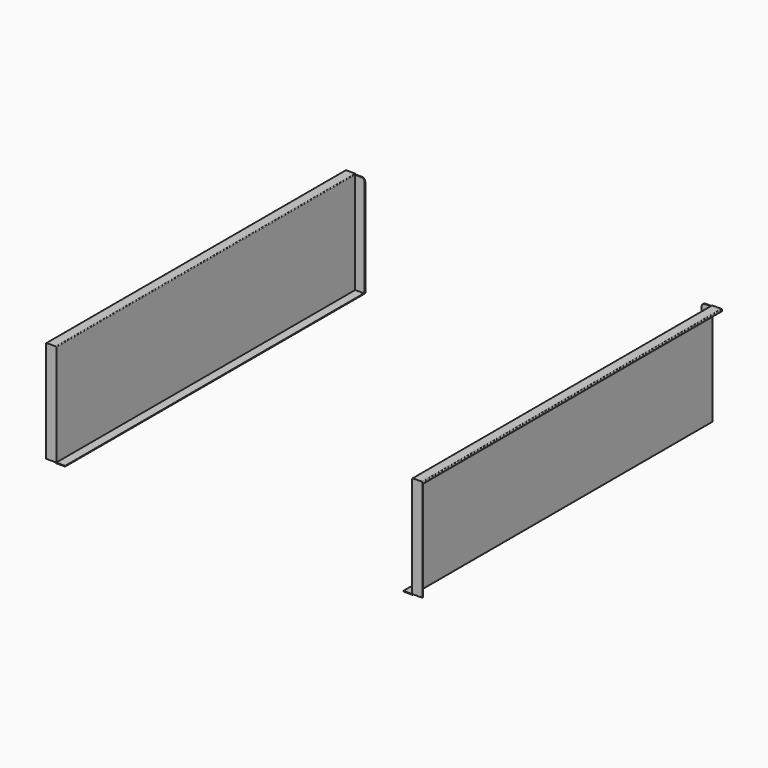
from build123d import *

# Parameters (mm, degrees)
F1_DEPTH = 550
F2_W     = 1
F2_H     = 149
F3_DEPTH = 14
F4_R     = 5
F5_W     = 1
F5_H     = 149
F6_DEPTH = 14
F7_DEPTH = 14


with BuildPart() as f1:
    # F0 (on Front) → F1 (new body)
    with BuildSketch(Plane.XZ):
        with BuildLine():
            Line((-275.5, 23.921954), (-275.5, 25.921954))
            Line((-275.5, 25.921954), (-262.5, 25.921954))
            Line((-262.5, 25.921954), (-262.5, -123.078046))
            ThreePointArc((-262.5, -123.078046), (-262.207107, -123.785152), (-261.5, -124.078046))
            Line((-261.5, -124.078046), (-248.5, -124.078046))
            Line((-248.5, -124.078046), (-248.5, -123.078046))
            Line((-248.5, -123.078046), (-261.5, -123.078046))
            Line((-261.5, -123.078046), (-261.5, 25.921954))
            ThreePointArc((-261.5, 25.921954), (-261.792893, 26.629061), (-262.5, 26.921954))
            Line((-262.5, 26.921954), (-275.5, 26.921954))
            ThreePointArc((-275.5, 26.921954), (-276.207107, 26.629061), (-276.5, 25.921954))
            Line((-276.5, 25.921954), (-276.5, 23.921954))
            Line((-276.5, 23.921954), (-275.5, 23.921954))
        make_face()
    extrude(amount=-F1_DEPTH)

    # F2 (on face) → F3 (join)
    with BuildSketch(Plane.YZ.offset(-261.5)):
        with Locations((549.5, -48.578046)):
            Rectangle(F2_W, F2_H)
    extrude(amount=F3_DEPTH)

    # F4
    f4_edges = [f1.edges().sort_by_distance(p)[0] for p in [
        (-247.5, 549.5, 25.921954),
    ]]
    fillet(f4_edges, radius=F4_R)

    # F5 (on face) → F6 (join)
    with BuildSketch(Plane(origin=(-262.5, 0, 0), x_dir=(0, -1, 0), z_dir=(-1, 0, 0))):
        with Locations((-0.5, -48.578046)):
            Rectangle(F5_W, F5_H)
    extrude(amount=F6_DEPTH)

    # F5 (on face) → F7 (join)
    with BuildSketch(Plane(origin=(-262.5, 0, 0), x_dir=(0, -1, 0), z_dir=(-1, 0, 0))):
        with Locations((-0.5, -48.578046)):
            Rectangle(F5_W, F5_H)
    extrude(amount=F7_DEPTH)


with BuildPart() as f8_1:
    # F8: instance of F1
    add(f1.part.mirror(Plane.YZ))


solid = Compound([f1.part, f8_1.part])
